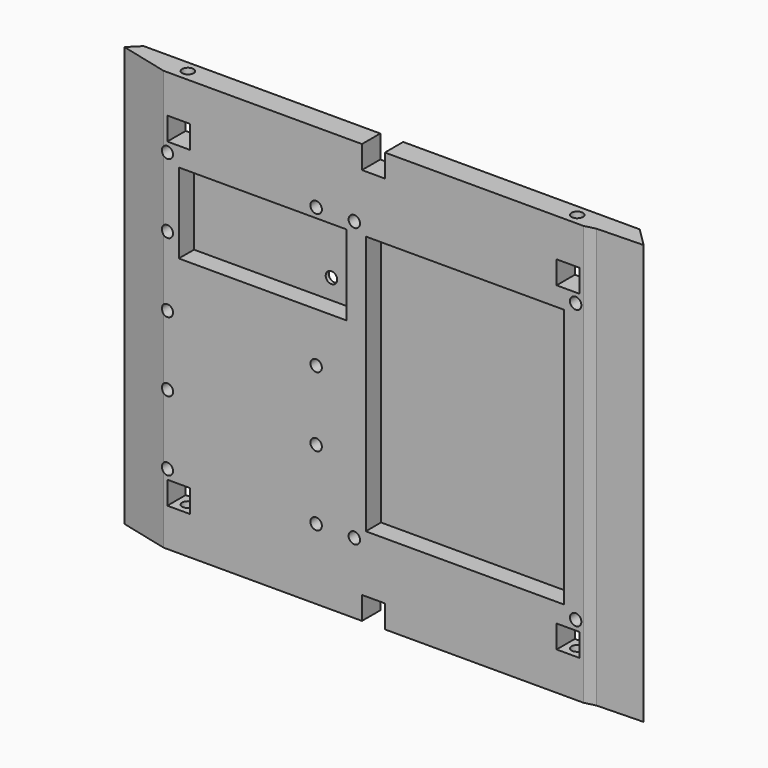
from build123d import *

# Parameters (mm, degrees)
F0_W      = 140
F0_H      = 110
F1_DEPTH  = 6
F3_D      = 3
F3_DEPTH  = 10
F3_TIP    = 0.9012909285
F5_D      = 3
F5_DEPTH  = 10
F5_TIP    = 0.9012909285
F6_SIZE   = 5
F7_W      = 6
F7_H      = 6
F8_DEPTH  = 6.001
F9_W      = 52
F9_H      = 68
F9_W_2    = 44
F9_H_2    = 21
F10_DEPTH = 5
F11_R     = 1.5
F12_DEPTH = 25
F14_DEPTH = 110.001
F16_DEPTH = 110.001


with BuildPart() as f1:
    # F0 (on Front) → F1 (new body)
    with BuildSketch(Plane.XZ):
        Rectangle(F0_W, F0_H)
    extrude(amount=F1_DEPTH)

    # F3
    with Locations(Plane(origin=(0, 0, -55), x_dir=(1, 0, 0), z_dir=(0, 0, -1))):
        with Locations((-51, 3), (51, 3)):
            Hole(F3_D / 2, depth=F3_DEPTH)
            with Locations((0, 0, -(F3_DEPTH + F3_TIP / 2))):  # 118° drill point
                Cone(0, F3_D / 2, F3_TIP, mode=Mode.SUBTRACT)

    # F5
    with Locations(Plane.XY.offset(55)):
        with Locations((51, -3), (-51, -3)):
            Hole(F5_D / 2, depth=F5_DEPTH)
            with Locations((0, 0, -(F5_DEPTH + F5_TIP / 2))):  # 118° drill point
                Cone(0, F5_D / 2, F5_TIP, mode=Mode.SUBTRACT)

    # F6
    f6_edges = [f1.edges().sort_by_distance(p)[0] for p in [
        (-70, 0, 0),
        (70, 0, 0),
    ]]
    chamfer(f6_edges, length=F6_SIZE)

    # F7 (on face) → F8 (cut, through all)
    with BuildSketch(Plane.XZ.offset(6)):
        with Locations((-51, -42)):
            Rectangle(F7_W, F7_H)
        with Locations((51, -42)):
            Rectangle(F7_W, F7_H)
        with Locations((51, 42)):
            Rectangle(F7_W, F7_H)
        with Locations((-51, 42)):
            Rectangle(F7_W, F7_H)
        with Locations((0, -52)):
            Rectangle(F7_W, F7_H)
        with Locations((0, 52)):
            Rectangle(F7_W, F7_H)
    extrude(amount=-F8_DEPTH, mode=Mode.SUBTRACT)

    # F9 (on face) → F10 (cut)
    with BuildSketch(Plane.XZ.offset(6)):
        with Locations((24, 0)):
            Rectangle(F9_W, F9_H)
        with Locations((-29, 23.5)):
            Rectangle(F9_W_2, F9_H_2)
    extrude(amount=-F10_DEPTH, mode=Mode.SUBTRACT)

    # F11 (on face) → F12 (cut)
    with BuildSketch(Plane.XZ.offset(6)):
        with Locations((-54, 36.5)):
            Circle(F11_R)
        with Locations((-5, 36.5)):
            Circle(F11_R)
        with Locations((-15, 36.5)):
            Circle(F11_R)
        with Locations((53, 36.5)):
            Circle(F11_R)
        with Locations((-54, 18.25)):
            Circle(F11_R)
        with Locations((-15, 18.25)):
            Circle(F11_R)
        with Locations((-54, 0)):
            Circle(F11_R)
        with Locations((-15, 0)):
            Circle(F11_R)
        with Locations((-54, -36.5)):
            Circle(F11_R)
        with Locations((-5, -36.5)):
            Circle(F11_R)
        with Locations((-15, -36.5)):
            Circle(F11_R)
        with Locations((53, -36.5)):
            Circle(F11_R)
        with Locations((-54, -18.25)):
            Circle(F11_R)
        with Locations((-15, -18.25)):
            Circle(F11_R)
    extrude(amount=-F12_DEPTH, mode=Mode.SUBTRACT)

    # F13 (on face) → F14 (cut, through all)
    with BuildSketch(Plane(origin=(0, 0, -55), x_dir=(1, 0, 0), z_dir=(0, 0, -1))):
        Polygon((70, 6), (55.0561677185, 6), (57.8561677185, 5.3), (69.95113754, 4.95113754), (70, 5), align=None)
    extrude(amount=-F14_DEPTH, mode=Mode.SUBTRACT)

    # F15 (on face) → F16 (cut, through all)
    with BuildSketch(Plane(origin=(0, 0, -55), x_dir=(1, 0, 0), z_dir=(0, 0, -1))):
        Polygon((-70, 5), (-67.8, 2.8), (-55, 6), (-70, 6), align=None)
    extrude(amount=-F16_DEPTH, mode=Mode.SUBTRACT)


solid = f1.part
